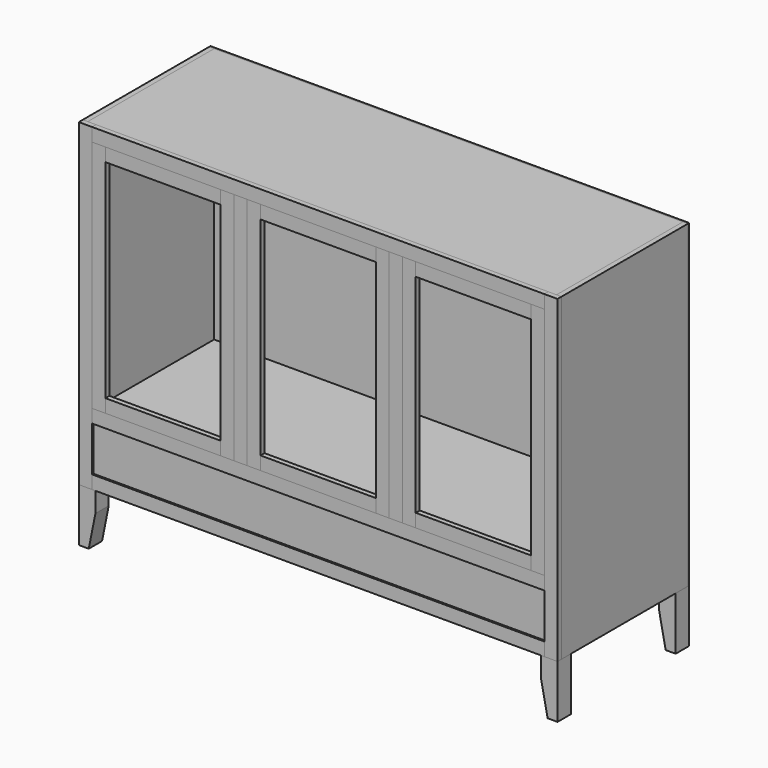
from build123d import *

# Parameters (mm, degrees)
F0_W      = 609.6
F0_H      = 1219.2
F1_DEPTH  = 19.05
F4_W      = 1790.7
F4_H      = 19.05
F5_DEPTH  = 609.6
F6_W      = 1790.7
F6_H      = 19.05
F7_DEPTH  = 609.6
F8_W      = 1790.7
F8_H      = 19.05
F9_DEPTH  = 609.6
F10_W     = 50.8
F10_H     = 1219.2
F11_DEPTH = 19.05
F13_W     = 1727.2
F13_H     = 50.8
F14_DEPTH = 19.05
F15_W     = 1727.2
F15_H     = 50.8
F16_DEPTH = 19.05
F17_W     = 1727.2
F17_H     = 50.8
F18_DEPTH = 19.05
F21_W     = 50.8
F21_H     = 895.35
F22_DEPTH = 19.05
F20_W     = 1727.2
F20_H     = 171.45
F24_DEPTH = 6.35
F25_W     = 50.8
F25_H     = 895.35
F26_DEPTH = 19.05
F27_W     = 50.8
F27_H     = 895.35
F28_DEPTH = 19.05
F29_W     = 440.182
F29_H     = 50.8
F30_DEPTH = 19.05
F31_W     = 440.182
F31_H     = 50.8
F32_DEPTH = 19.05
F34_W     = 50.8
F34_H     = 895.35
F35_DEPTH = 19.05
F36_W     = 50.8
F36_H     = 895.35
F37_DEPTH = 19.05
F38_W     = 440.436
F38_H     = 50.8
F39_DEPTH = 19.05
F40_W     = 440.436
F40_H     = 50.8
F41_DEPTH = 19.05
F42_W     = 1828.8
F42_H     = 1219.2
F43_DEPTH = 6.35
F45_DEPTH = 63.5


with BuildPart() as f1:
    # F0 (on Right) → F1 (new body)
    with BuildSketch(Plane.YZ):
        with Locations((274.3411302805, 518.5848358816)):
            Rectangle(F0_W, F0_H)
    extrude(amount=F1_DEPTH)


with BuildPart() as f3_1:
    # F3: instance of F1
    add(f1.part.mirror(Plane(origin=(-895.35, 274.3411302805, 518.5848358816), x_dir=(0, 1, 0), z_dir=(1, 0, 0))))


with BuildPart() as f5:
    # F4 (on face) → F5 (new body)
    with BuildSketch(Plane.XZ.offset(30.4588697195)):
        with Locations((-895.35, 1118.6598358816)):
            Rectangle(F4_W, F4_H)
    extrude(amount=-F5_DEPTH)


with BuildPart() as f7:
    # F6 (on face) → F7 (new body)
    with BuildSketch(Plane.XZ.offset(30.4588697195)):
        with Locations((-895.35, -81.4901641184)):
            Rectangle(F6_W, F6_H)
    extrude(amount=-F7_DEPTH)


with BuildPart() as f9:
    # F8 (on face) → F9 (new body)
    with BuildSketch(Plane.XZ.offset(30.4588697195)):
        with Locations((-895.35, 140.7598358816)):
            Rectangle(F8_W, F8_H)
    extrude(amount=-F9_DEPTH)


with BuildPart() as f11:
    # F10 (on face) → F11 (new body)
    with BuildSketch(Plane.XZ.offset(30.4588697195)):
        with Locations((-6.35, 518.5848358816)):
            Rectangle(F10_W, F10_H)
    extrude(amount=F11_DEPTH)


with BuildPart() as f12_1:
    # F12: instance of F11
    add(f11.part.mirror(Plane(origin=(-895.35, 274.3411302805, 518.5848358816), x_dir=(0, 1, 0), z_dir=(1, 0, 0))))


with BuildPart() as f14:
    # F13 (on face) → F14 (new body)
    with BuildSketch(Plane.XZ.offset(30.4588697195)):
        with Locations((-895.35, 1102.7848358816)):
            Rectangle(F13_W, F13_H)
    extrude(amount=F14_DEPTH)


with BuildPart() as f16:
    # F15 (on face) → F16 (new body)
    with BuildSketch(Plane.XZ.offset(30.4588697195)):
        with Locations((-895.35, 156.6348358816)):
            Rectangle(F15_W, F15_H)
    extrude(amount=F16_DEPTH)


with BuildPart() as f18:
    # F17 (on face) → F18 (new body)
    with BuildSketch(Plane.XZ.offset(30.4588697195)):
        with Locations((-895.35, -65.6151641184)):
            Rectangle(F17_W, F17_H)
    extrude(amount=F18_DEPTH)


with BuildPart() as f22:
    # F21 (on face) → F22 (new body)
    with BuildSketch(Plane.XZ.offset(49.5088697195)):
        with Locations((-598.932, 629.7098358816)):
            Rectangle(F21_W, F21_H)
    extrude(amount=-F22_DEPTH)


with BuildPart() as f23_1:
    # F23: instance of F22
    add(f22.part.mirror(Plane(origin=(-895.35, 274.3411302805, 518.5848358816), x_dir=(0, 1, 0), z_dir=(1, 0, 0))))


with BuildPart() as f24:
    # F20 (on offset) → F24 (new body)
    with BuildSketch(Plane.XZ.offset(43.1588697195)):
        with Locations((-895.35, 45.5098358816)):
            Rectangle(F20_W, F20_H)
    extrude(amount=-F24_DEPTH)


with BuildPart() as f26:
    # F25 (on face) → F26 (new body)
    with BuildSketch(Plane.XZ.offset(49.5088697195)):
        with Locations((-57.15, 629.7098358816)):
            Rectangle(F25_W, F25_H)
    extrude(amount=-F26_DEPTH)


with BuildPart() as f28:
    # F27 (on face) → F28 (new body)
    with BuildSketch(Plane.XZ.offset(49.5088697195)):
        with Locations((-548.132, 629.7098358816)):
            Rectangle(F27_W, F27_H)
    extrude(amount=-F28_DEPTH)


with BuildPart() as f30:
    # F29 (on face) → F30 (new body)
    with BuildSketch(Plane.XZ.offset(49.5088697195)):
        with Locations((-302.641, 1051.9848358816)):
            Rectangle(F29_W, F29_H)
    extrude(amount=-F30_DEPTH)


with BuildPart() as f32:
    # F31 (on face) → F32 (new body)
    with BuildSketch(Plane.XZ.offset(49.5088697195)):
        with Locations((-302.641, 207.4348358816)):
            Rectangle(F31_W, F31_H)
    extrude(amount=-F32_DEPTH)


with BuildPart() as f33_1:
    # F33: instance of F28
    add(f28.part.mirror(Plane(origin=(-895.35, 274.3411302805, 518.5848358816), x_dir=(0, 1, 0), z_dir=(1, 0, 0))))


with BuildPart() as f33_2:
    # F33: instance of F30
    add(f30.part.mirror(Plane(origin=(-895.35, 274.3411302805, 518.5848358816), x_dir=(0, 1, 0), z_dir=(1, 0, 0))))


with BuildPart() as f33_3:
    # F33: instance of F26
    add(f26.part.mirror(Plane(origin=(-895.35, 274.3411302805, 518.5848358816), x_dir=(0, 1, 0), z_dir=(1, 0, 0))))


with BuildPart() as f33_4:
    # F33: instance of F32
    add(f32.part.mirror(Plane(origin=(-895.35, 274.3411302805, 518.5848358816), x_dir=(0, 1, 0), z_dir=(1, 0, 0))))


with BuildPart() as f35:
    # F34 (on face) → F35 (new body)
    with BuildSketch(Plane.XZ.offset(49.5088697195)):
        with Locations((-649.732, 629.7098358816)):
            Rectangle(F34_W, F34_H)
    extrude(amount=-F35_DEPTH)


with BuildPart() as f37:
    # F36 (on face) → F37 (new body)
    with BuildSketch(Plane.XZ.offset(49.5088697195)):
        with Locations((-1140.968, 629.7098358816)):
            Rectangle(F36_W, F36_H)
    extrude(amount=-F37_DEPTH)


with BuildPart() as f39:
    # F38 (on face) → F39 (new body)
    with BuildSketch(Plane.XZ.offset(49.5088697195)):
        with Locations((-895.35, 1051.9848358816)):
            Rectangle(F38_W, F38_H)
    extrude(amount=-F39_DEPTH)


with BuildPart() as f41:
    # F40 (on face) → F41 (new body)
    with BuildSketch(Plane.XZ.offset(49.5088697195)):
        with Locations((-895.35, 207.4348358816)):
            Rectangle(F40_W, F40_H)
    extrude(amount=-F41_DEPTH)


with BuildPart() as f43:
    # F42 (on face) → F43 (new body)
    with BuildSketch(Plane(origin=(0, 579.1411302805, 0), x_dir=(-1, 0, 0), z_dir=(0, 1, 0))):
        with Locations((895.35, 518.5848358816)):
            Rectangle(F42_W, F42_H)
    extrude(amount=-F43_DEPTH)


with BuildPart() as f45:
    # F44 (on face) → F45 (new body)
    with BuildSketch(Plane.XZ.offset(49.5088697195)):
        Polygon((19.05, -294.2151641184), (19.05, -91.0151641184), (-44.45, -91.0151641184), (-44.45, -167.2151641184), (-19.05, -294.2151641184), align=None)
    extrude(amount=-F45_DEPTH)


with BuildPart() as f46_1:
    # F46: instance of F45
    add(f45.part.mirror(Plane(origin=(-895.35, 274.3411302805, 518.5848358816), x_dir=(0, 1, 0), z_dir=(1, 0, 0))))


with BuildPart() as f48_1:
    # F48: instance of F46_1
    add(f46_1.part.mirror(Plane(origin=(-895.35, 264.1811302805, 1118.6598358816), x_dir=(1, 0, 0), z_dir=(0, 1, 0))))


with BuildPart() as f48_2:
    # F48: instance of F45
    add(f45.part.mirror(Plane(origin=(-895.35, 264.1811302805, 1118.6598358816), x_dir=(1, 0, 0), z_dir=(0, 1, 0))))


solid = Compound([f1.part, f3_1.part, f5.part, f7.part, f9.part, f11.part, f12_1.part, f14.part, f16.part, f18.part, f22.part, f23_1.part, f24.part, f26.part, f28.part, f30.part, f32.part, f33_1.part, f33_2.part, f33_3.part, f33_4.part, f35.part, f37.part, f39.part, f41.part, f43.part, f45.part, f46_1.part, f48_1.part, f48_2.part])
